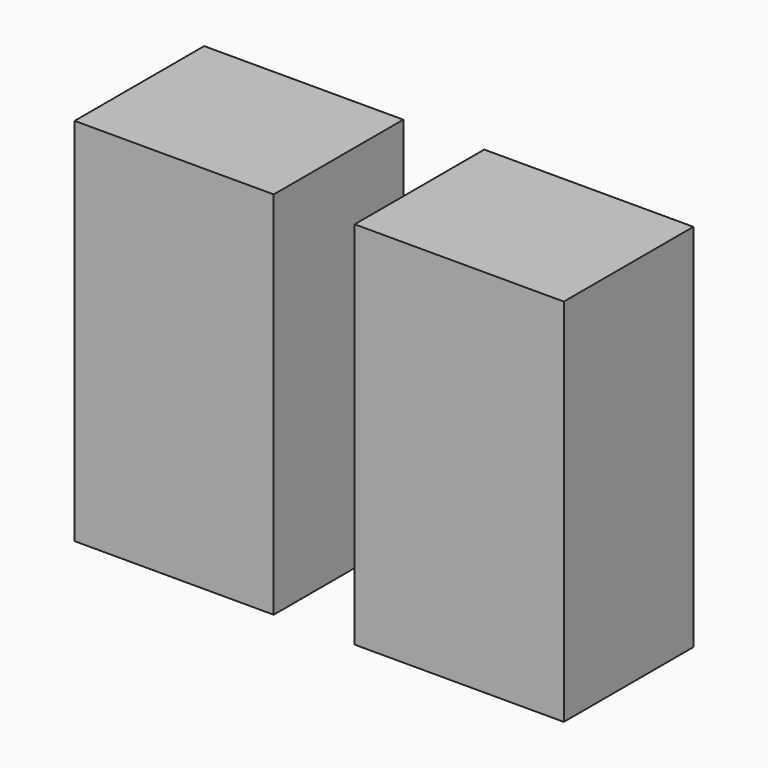
from build123d import *

# Parameters (mm, degrees)
F0_W     = 13.452195
F0_H     = 10.939148
F0_W_2   = 14.128364
F1_DEPTH = 25


with BuildPart() as f1:
    # F0 (on Top) → F1 (new body)
    with BuildSketch(Plane.XY):
        with Locations((-26.324033, 23.630349)):
            Rectangle(F0_W, F0_H)
        with Locations((-7.064182, 23.630349)):
            Rectangle(F0_W_2, F0_H)
    extrude(amount=F1_DEPTH)


solid = f1.part
